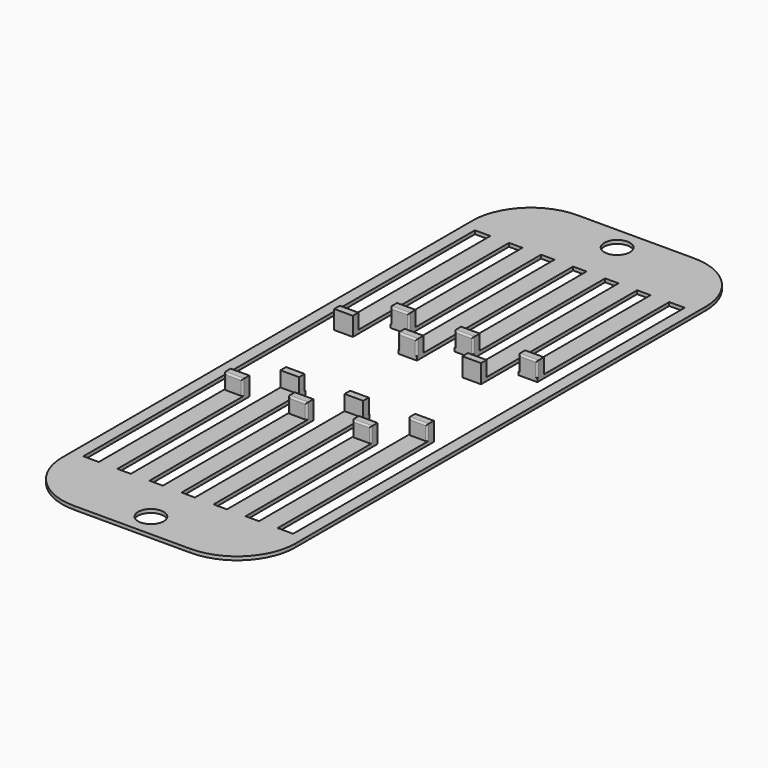
from build123d import *

# Parameters (mm, degrees)
SKETCH009_W  = 20
SKETCH009_H  = 54
SKETCH009_R  = 1.1
PAD009_DEPTH = 0.3
FILLET_R     = 5
SKETCH001_W  = 1.6
SKETCH001_H  = 0.7
PAD001_DEPTH = 1.3
FILLET001_R  = 0.15
FILLET002_R  = 0.15


with BuildPart() as fillet_body:
    # Sketch009 → Pad009 (new body)
    with BuildSketch(Plane.XY):
        with Locations((10, 27)):
            Rectangle(SKETCH009_W, SKETCH009_H)
        with Locations((10, 52)):
            Circle(SKETCH009_R, mode=Mode.SUBTRACT)
        with Locations((10, 2)):
            Circle(SKETCH009_R, mode=Mode.SUBTRACT)
        Polygon((1, 48), (1, 6), (2.325, 6), (2.325, 20.15), (3.925, 20.15), (3.925, 6), (5.075, 6), (5.075, 22.75), (6.675, 22.75), (6.675, 6), (7.825, 6), (7.825, 20.15), (9.425, 20.15), (9.425, 6), (10.575, 6), (10.575, 22.75), (12.175, 22.75), (12.175, 6), (13.325, 6), (13.325, 20.15), (14.925, 20.15), (14.925, 6), (16.075, 6), (16.075, 22.75), (17.675, 22.75), (17.675, 6), (19, 6), (19, 48), (17.675, 48), (17.675, 33.85), (16.075, 33.85), (16.075, 48), (14.925, 48), (14.925, 31.25), (13.325, 31.25), (13.325, 48), (12.175, 48), (12.175, 33.85), (10.575, 33.85), (10.575, 48), (9.425, 48), (9.425, 31.25), (7.825, 31.25), (7.825, 48), (6.675, 48), (6.675, 33.85), (5.075, 33.85), (5.075, 48), (3.925, 48), (3.925, 31.25), (2.325, 31.25), (2.325, 48), align=None, mode=Mode.SUBTRACT)
    extrude(amount=PAD009_DEPTH)

    # Fillet
    fillet_edges = [fillet_body.edges().sort_by_distance(p)[0] for p in [
        (20, 0, 0.15),
        (0, 0, 0.15),
        (20, 54, 0.15),
        (0, 54, 0.15),
    ]]
    fillet(fillet_edges, radius=FILLET_R)


with BuildPart() as fusion:
    # Sketch001 → Pad001 (new body)
    with BuildSketch(Plane.XY.offset(0.3)):
        with Locations((3.125, 19.8)):
            Rectangle(SKETCH001_W, SKETCH001_H)
        with Locations((5.875, 22.4)):
            Rectangle(SKETCH001_W, SKETCH001_H)
        with Locations((8.625, 19.8)):
            Rectangle(SKETCH001_W, SKETCH001_H)
        with Locations((11.375, 22.4)):
            Rectangle(SKETCH001_W, SKETCH001_H)
        with Locations((14.125, 19.8)):
            Rectangle(SKETCH001_W, SKETCH001_H)
        with Locations((16.875, 22.4)):
            Rectangle(SKETCH001_W, SKETCH001_H)
        with Locations((3.125, 31.6)):
            Rectangle(SKETCH001_W, SKETCH001_H)
        with Locations((5.875, 34.2)):
            Rectangle(SKETCH001_W, SKETCH001_H)
        with Locations((8.625, 31.6)):
            Rectangle(SKETCH001_W, SKETCH001_H)
        with Locations((11.375, 34.2)):
            Rectangle(SKETCH001_W, SKETCH001_H)
        with Locations((14.125, 31.6)):
            Rectangle(SKETCH001_W, SKETCH001_H)
        with Locations((16.875, 34.2)):
            Rectangle(SKETCH001_W, SKETCH001_H)
    extrude(amount=PAD001_DEPTH)

    # Fillet001
    fillet001_edges = [fusion.edges().sort_by_distance(p)[0] for p in [
        (9.425, 19.45, 0.95),
        (8.625, 19.45, 1.6),
        (7.825, 19.45, 0.95),
        (7.825, 31.25, 0.95),
        (8.625, 31.25, 1.6),
        (9.425, 31.25, 0.95),
        (10.575, 22.75, 0.95),
        (11.375, 22.75, 1.6),
        (12.175, 22.75, 0.95),
        (16.075, 22.05, 0.95),
        (16.875, 22.05, 1.6),
        (17.675, 22.05, 0.95),
        (13.325, 31.95, 0.95),
        (14.125, 31.95, 1.6),
        (14.925, 31.95, 0.95),
        (5.075, 33.85, 0.95),
        (5.875, 33.85, 1.6),
        (6.675, 33.85, 0.95),
    ]]
    fillet(fillet001_edges, radius=FILLET001_R)

    # Fillet002
    fillet002_edges = [fusion.edges().sort_by_distance(p)[0] for p in [
        (3.925, 19.45, 0.95),
        (3.125, 19.45, 1.6),
        (2.325, 19.45, 0.95),
        (13.325, 19.45, 0.95),
        (14.125, 19.45, 1.6),
        (14.925, 19.45, 0.95),
        (2.325, 31.95, 0.95),
        (3.125, 31.95, 1.6),
        (3.925, 31.95, 0.95),
        (5.075, 22.75, 0.95),
        (5.875, 22.75, 1.6),
        (6.675, 22.75, 0.95),
        (16.075, 33.85, 0.95),
        (16.875, 33.85, 1.6),
        (17.675, 33.85, 0.95),
        (12.175, 33.85, 0.95),
        (11.375, 33.85, 1.6),
        (10.575, 33.85, 0.95),
    ]]
    fillet(fillet002_edges, radius=FILLET002_R)

    # Fusion: union Fillet body
    add(fillet_body.part)


solid = fusion.part
